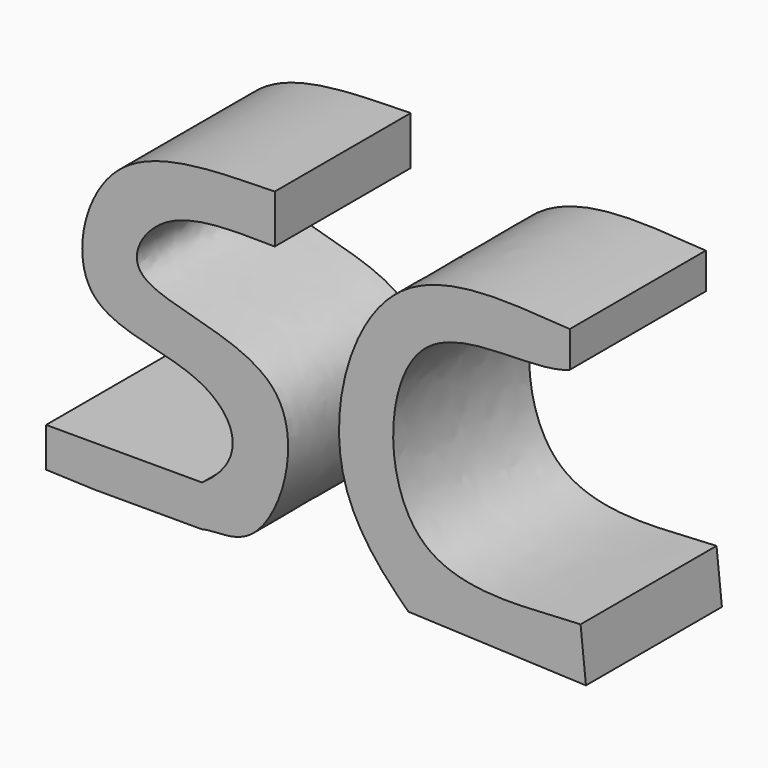
from build123d import *

# Parameters (mm, degrees)
F1_DEPTH = 25.4
F3_DEPTH = 25.4


with BuildPart() as f1:
    # F0 (on Front) → F1 (new body)
    with BuildSketch(Plane.XZ):
        with BuildLine():
            add(Edge.make_bspline(
                [(0, 46.3709570467), (-6.1704137796, 46.4338267672), (-16.880098013, 46.9796939573), (-24.9064240431, 32.914558963), (7.6871024421, 33.2195113159), (-1.0140436342, 4.1411499506), (-9.1814069554, 6.1720389553), (-10.8556281775, 5.6288442574)],
                knots=[0, 0, 0, 0, 0.2174080044, 0.3684139911, 0.6160005651, 0.8530165487, 1, 1, 1, 1], degree=3))
            Line((0, 46.3709570467), (0, 53.6080412567))
            add(Edge.make_bspline(
                [(-10.8556281775, 11.7937689647), (-3.796067061, 16.6811583734), (-8.5661210075, 27.8757531743), (-32.1648526785, 26.8040013399), (-26.4035945954, 53.7751090546), (-9.1579540297, 53.3679242262), (0, 53.6080412567)],
                knots=[0, 0, 0, 0, 0.2097543009, 0.4622255601, 0.7071348093, 1, 1, 1, 1], degree=3))
            Line((-10.8556281775, 11.7937689647), (-26.9380398095, 11.7937689647))
            Line((-26.9380398095, 11.7937689647), (-34.1751277447, 11.7937689647))
            Line((-34.1751277447, 11.7937689647), (-34.1751277447, 5.8968844824))
            Line((-34.1751277447, 5.8968844824), (-26.9380398095, 5.6288442574))
            Line((-26.9380398095, 5.6288442574), (-10.8556281775, 5.6288442574))
        make_face()
    extrude(amount=F1_DEPTH)


with BuildPart() as f3:
    # F2 (on Front) → F3 (new body)
    with BuildSketch(Plane.XZ):
        with BuildLine():
            add(Edge.make_bspline(
                [(44.0926142037, 44.4946736097), (38.5963105044, 42.2626423132), (16.6860225713, 48.170913261), (15.7616386718, 7.0777469726), (38.9656480147, 11.4415274382), (45.7008555532, 11.5257296711)],
                knots=[0, 0, 0, 0, 0.3214550257, 0.6644872651, 1, 1, 1, 1], degree=3))
            Line((44.0926142037, 44.4946736097), (44.0926142037, 49.8554781079))
            add(Edge.make_bspline(
                [(44.0926142037, 49.8554781079), (36.3092318839, 50.2617346323), (14.7902139993, 53.2783689014), (5.2432626211, 18.4839159713), (17.5216751274, 7.2500344641), (19.9689920992, 4.8247235827)],
                knots=[0, 0, 0, 0, 0.3460583244, 0.7136136814, 1, 1, 1, 1], degree=3))
            Line((19.9689920992, 4.8247235827), (46.5049743652, 3.7525629159))
            Line((46.5049743652, 3.7525629159), (45.7008555532, 11.5257296711))
        make_face()
    extrude(amount=F3_DEPTH)


solid = Compound([f1.part, f3.part])
